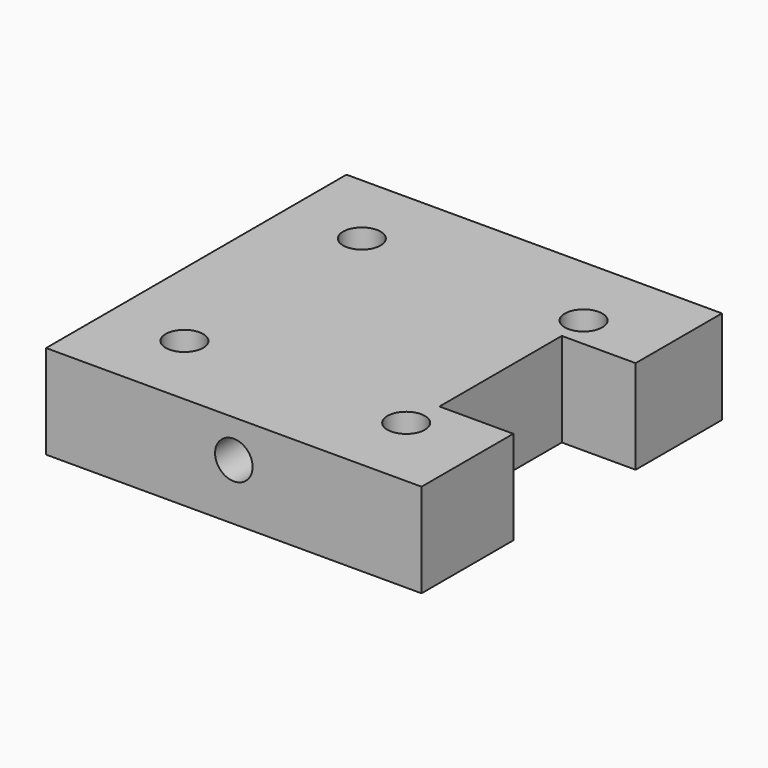
from build123d import *

# Parameters (mm, degrees)
F0_W      = 50.8
F0_H      = 50.8
F1_DEPTH  = 12.7
F2_W      = 9.9903053224
F2_H      = 20.6871938426
F3_DEPTH  = 25.4
F4_R      = 2.54
F5_DEPTH  = 25.4
F6_R      = 2.54
F7_DEPTH  = 7.874
F8_R      = 2.54
F9_DEPTH  = 12.7
F10_R     = 2.54
F11_DEPTH = 7.62


with BuildPart() as f1:
    # F0 (on Top) → F1 (new body)
    with BuildSketch(Plane.XY):
        Rectangle(F0_W, F0_H)
    extrude(amount=F1_DEPTH)

    # F2 (on face) → F3 (cut)
    with BuildSketch(Plane.XY.offset(12.7)):
        with Locations((20.4048473388, 0.4619845422)):
            Rectangle(F2_W, F2_H)
    extrude(amount=-F3_DEPTH, mode=Mode.SUBTRACT)

    # F4 (on face) → F5 (cut)
    with BuildSketch(Plane.XY.offset(12.7)):
        with Locations((-15, 15)):
            Circle(F4_R)
        with Locations((15, 15)):
            Circle(F4_R)
        with Locations((-15, -15)):
            Circle(F4_R)
        with Locations((15, -15)):
            Circle(F4_R)
    extrude(amount=-F5_DEPTH, mode=Mode.SUBTRACT)

    # F6 (on face) → F7 (cut)
    with BuildSketch(Plane.XZ.offset(25.4)):
        with Locations((0, 7.62)):
            Circle(F6_R)
    extrude(amount=-F7_DEPTH, mode=Mode.SUBTRACT)

    # F8 (on face) → F9 (cut)
    with BuildSketch(Plane(origin=(-25.4, 0, 0), x_dir=(0, -1, 0), z_dir=(-1, 0, 0))):
        with Locations((0, 7.62)):
            Circle(F8_R)
    extrude(amount=-F9_DEPTH, mode=Mode.SUBTRACT)

    # F10 (on face) → F11 (cut)
    with BuildSketch(Plane(origin=(0, 25.4, 0), x_dir=(-1, 0, 0), z_dir=(0, 1, 0))):
        with Locations((0, 7.62)):
            Circle(F10_R)
    extrude(amount=-F11_DEPTH, mode=Mode.SUBTRACT)


solid = f1.part
